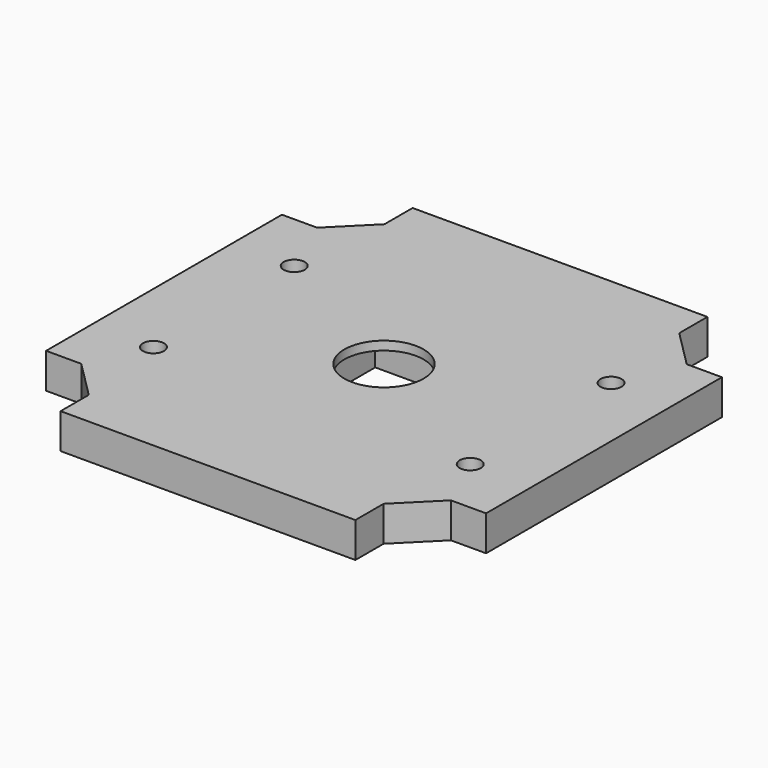
from build123d import *

# Parameters (mm, degrees)
SKETCH_R     = 4.5
SKETCH_R_2   = 1.2
PAD_DEPTH    = 4
SKETCH001_W  = 10
SKETCH001_H  = 10
POCKET_DEPTH = 3


with BuildPart() as part:
    # Sketch → Pad (new body)
    with BuildSketch(Plane.XY):
        Polygon((0, 0), (33.5, 0), (33.5, 4), (37.75, 8.25), (41.75, 8.25), (41.75, 41.75), (37.75, 41.75), (33.5, 46), (33.5, 50), (0, 50), (0, 46), (-4.25, 41.75), (-8.25, 41.75), (-8.25, 8.25), (-4.25, 8.25), (0, 4), align=None)
        with Locations((16.75, 25)):
            Circle(SKETCH_R, mode=Mode.SUBTRACT)
        with Locations((-1.25, 34.75)):
            Circle(SKETCH_R_2, mode=Mode.SUBTRACT)
        with Locations((-1.25, 14.75)):
            Circle(SKETCH_R_2, mode=Mode.SUBTRACT)
        with Locations((34.75, 34.75)):
            Circle(SKETCH_R_2, mode=Mode.SUBTRACT)
        with Locations((34.75, 14.75)):
            Circle(SKETCH_R_2, mode=Mode.SUBTRACT)
    extrude(amount=PAD_DEPTH)

    # Sketch001 → Pocket (cut)
    with BuildSketch(Plane.XY):
        with Locations((16.75, 25)):
            Rectangle(SKETCH001_W, SKETCH001_H)
    extrude(amount=POCKET_DEPTH, mode=Mode.SUBTRACT)


solid = part.part
